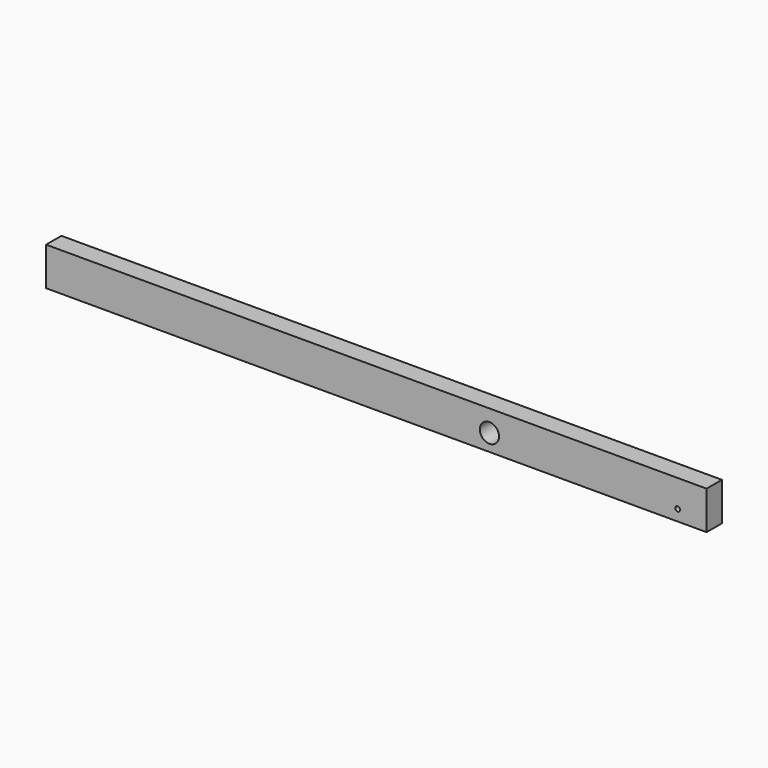
from build123d import *

# Parameters (mm, degrees)
F0_W     = 1750
F0_H     = 101.6
F0_R     = 25.4
F1_DEPTH = 50.8
F2_R     = 6.35
F3_DEPTH = 50.8


with BuildPart() as f1:
    # F0 (on Front) → F1 (new body)
    with BuildSketch(Plane.XZ):
        with Locations((-8.72202, -184.640433)):
            Rectangle(F0_W, F0_H)
        with Locations((290.87798, -190.990433)):
            Circle(F0_R, mode=Mode.SUBTRACT)
    extrude(amount=F1_DEPTH)

    # F2 (on face) → F3 (cut)
    with BuildSketch(Plane.XZ.offset(50.8)):
        with Locations((789.710581, -206.230433)):
            Circle(F2_R)
    extrude(amount=-F3_DEPTH, mode=Mode.SUBTRACT)


solid = f1.part
